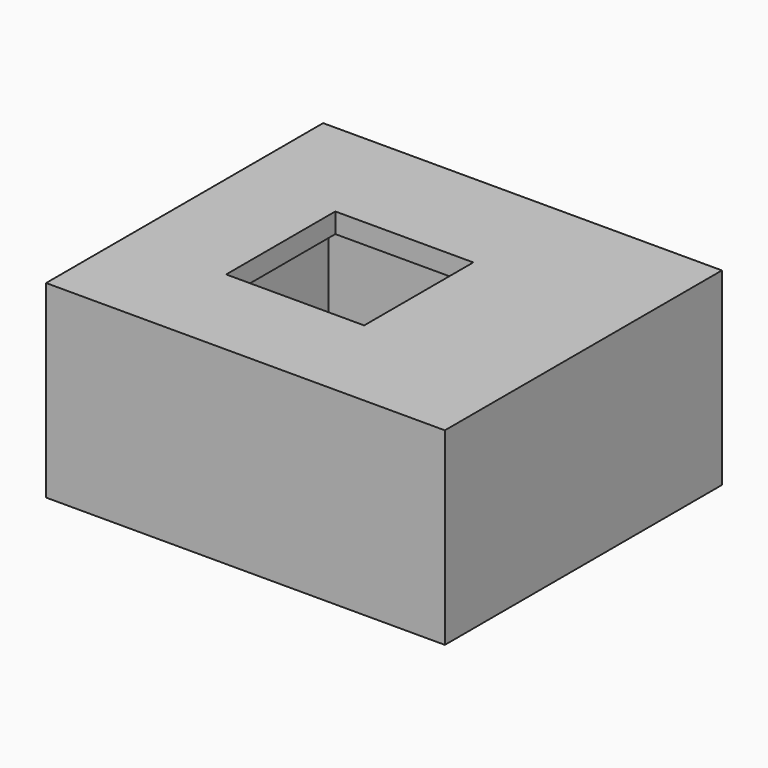
from build123d import *

# Parameters (mm, degrees)
SKETCH014_W  = 3.21
SKETCH014_H  = 3.21
PAD012_DEPTH = 0.18
SKETCH013_W  = 2.63
SKETCH013_H  = 2.6
PAD011_DEPTH = 3
SKETCH011_W  = 7.6
SKETCH011_H  = 6.6
PAD010_DEPTH = 3.6
SKETCH012_W  = 6.16
SKETCH012_H  = 5.02
POCKET_DEPTH = 3.05


with BuildPart() as body012:
    # Sketch014 → Pad012 (new body)
    with BuildSketch(Plane.XY):
        with Locations((-0.565, -15.485)):
            Rectangle(SKETCH014_W, SKETCH014_H)
    extrude(amount=PAD012_DEPTH)


with BuildPart() as body012_1:
    # Body012 placement: moved
    add(body012.part.moved(Location((0, 0, 3.04))))


with BuildPart() as obj1:
    # Sketch013 → Pad011 (new body)
    with BuildSketch(Plane.XY):
        with Locations((-0.565, -15.48)):
            Rectangle(SKETCH013_W, SKETCH013_H)
    extrude(amount=PAD011_DEPTH)


with BuildPart() as obj1_1:
    # Body011 placement: moved
    add(obj1.part.moved(Location((0, 0, 1.92))))


with BuildPart() as cut001_outer_shell:
    # Sketch011 → Pad010 (new body)
    with BuildSketch(Plane.XY):
        with Locations((0, -15.37)):
            Rectangle(SKETCH011_W, SKETCH011_H)
    extrude(amount=PAD010_DEPTH)

    # Sketch012 → Pocket (cut)
    with BuildSketch(Plane.XY):
        with Locations((-0.02, -15.33)):
            Rectangle(SKETCH012_W, SKETCH012_H)
    extrude(amount=POCKET_DEPTH, mode=Mode.SUBTRACT)

    # Cut: cut obj1
    add(obj1_1.part, mode=Mode.SUBTRACT)

    # Cut001: cut Body012
    add(body012_1.part, mode=Mode.SUBTRACT)


solid = cut001_outer_shell.part
